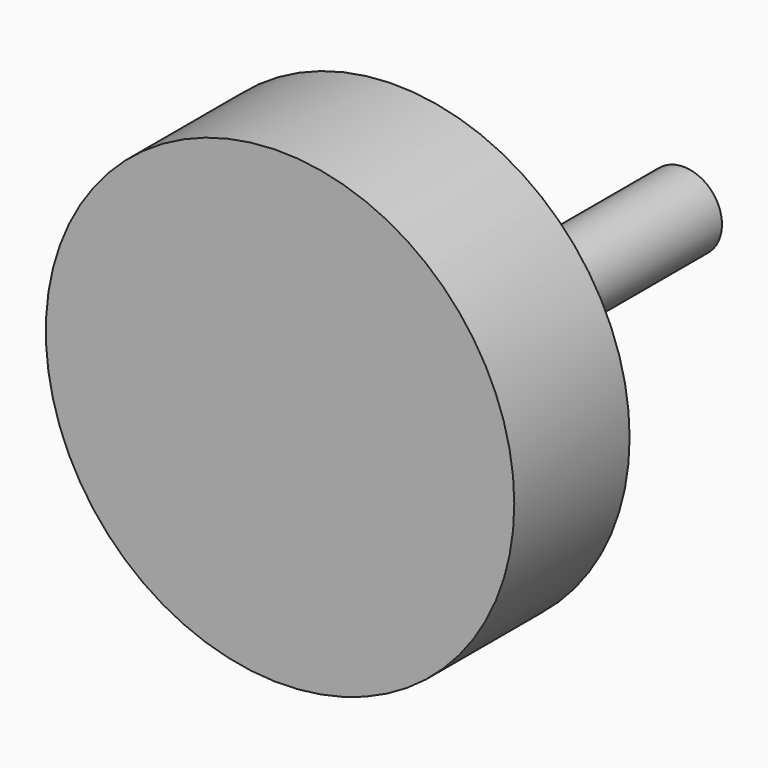
from build123d import *

# Parameters (mm, degrees)
F0_R     = 82.55
F1_DEPTH = 50.8
F2_R     = 13.506926
F3_DEPTH = 127


with BuildPart() as f1:
    # F0 (on Front) → F1 (new body)
    with BuildSketch(Plane.XZ):
        Circle(F0_R)
    extrude(amount=F1_DEPTH)

    # F2 (on face) → F3 (join)
    with BuildSketch(Plane(origin=(0, 0, 0), x_dir=(-1, 0, 0), z_dir=(0, 1, 0))):
        with Locations((0, -8.029219)):
            Circle(F2_R)
    extrude(amount=F3_DEPTH)


solid = f1.part
